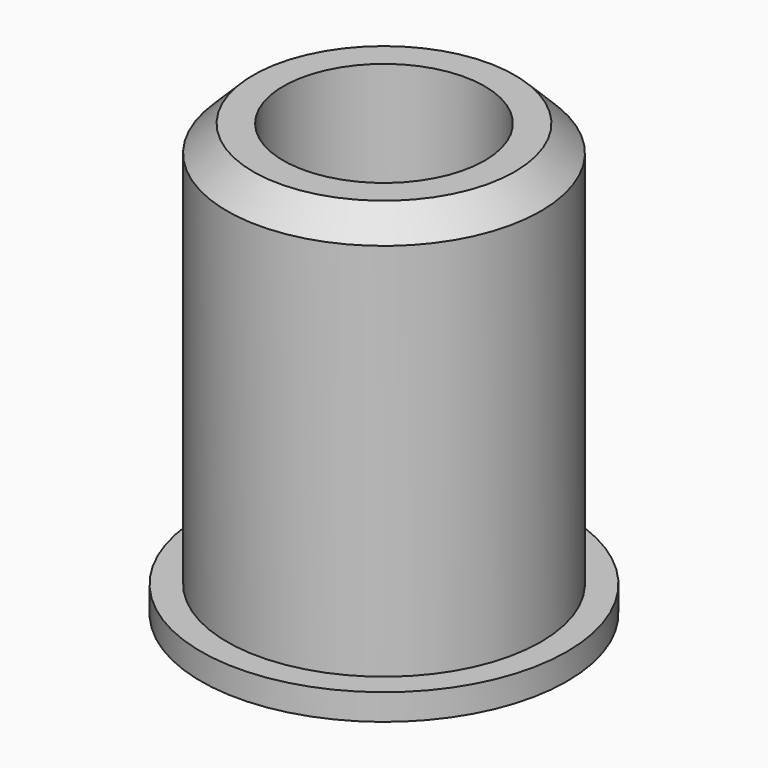
from build123d import *

# Parameters (mm, degrees)
SKETCH088_R     = 7
PAD030_DEPTH    = 1
SKETCH089_R     = 6
PAD031_DEPTH    = 15.5
CHAMFER008_SIZE = 1
SKETCH090_R     = 3.85
POCKET050_DEPTH = 16.501


with BuildPart() as part:
    # Sketch088 → Pad030 (new body)
    with BuildSketch(Plane.XY):
        Circle(SKETCH088_R)
    extrude(amount=PAD030_DEPTH)

    # Sketch089 (on Face3 of Pad030) → Pad031 (join)
    with BuildSketch(Plane.XY.offset(1)):
        Circle(SKETCH089_R)
    extrude(amount=PAD031_DEPTH)

    # Chamfer008
    chamfer008_edges = [part.edges().sort_by_distance(p)[0] for p in [
        (-6, 0, 16.5),
    ]]
    chamfer(chamfer008_edges, length=CHAMFER008_SIZE)

    # Sketch090 (on Face4 of Chamfer008) → Pocket050 (cut, through all)
    with BuildSketch(Plane.XY.offset(16.5)):
        Circle(SKETCH090_R)
    extrude(amount=-POCKET050_DEPTH, mode=Mode.SUBTRACT)


solid = part.part
